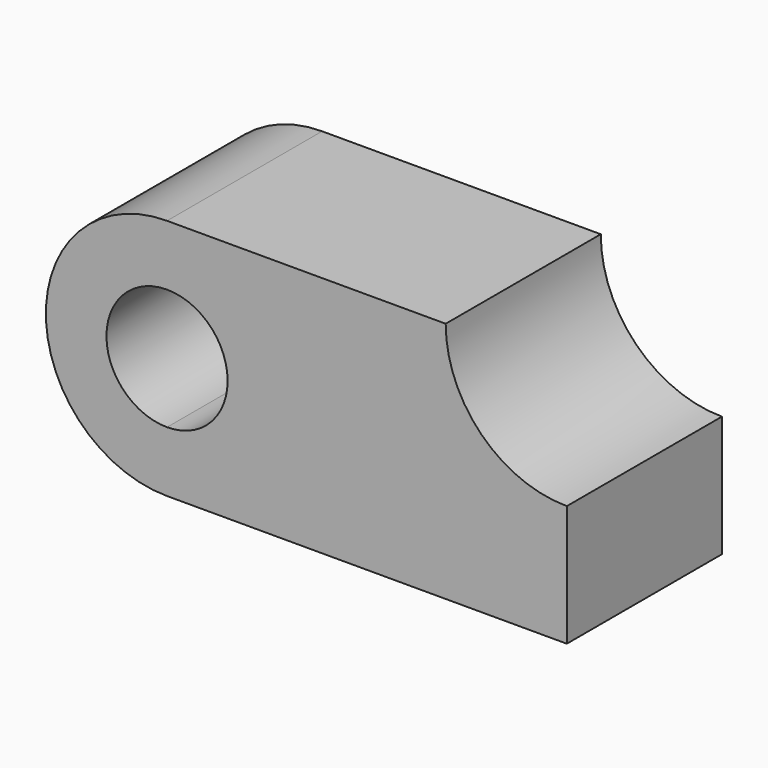
from build123d import *

# Parameters (mm, degrees)
F1_DEPTH = 50.8


with BuildPart() as f1:
    # F0 (on Front) → F1 (new body)
    with BuildSketch(Plane.XZ):
        with BuildLine():
            Line((0, 0), (104.775, 0))
            Line((104.775, 0), (104.775, 31.75))
            ThreePointArc((104.775, 31.75), (82.32436, 41.04936), (73.025, 63.5))
            Line((73.025, 63.5), (0, 63.5))
            Line((0, 63.5), (0, 47.625))
            ThreePointArc((0, 47.625), (11.22532, 42.97532), (15.875, 31.75))
            ThreePointArc((15.875, 31.75), (11.22532, 20.52468), (0, 15.875))
            Line((0, 15.875), (0, 0))
        make_face()
        with BuildLine():
            ThreePointArc((0, 63.5), (-31.75, 31.75), (0, 0))
            Line((0, 0), (0, 15.875))
            ThreePointArc((0, 15.875), (-15.875, 31.75), (0, 47.625))
            Line((0, 47.625), (0, 63.5))
        make_face()
    extrude(amount=F1_DEPTH)


solid = f1.part
